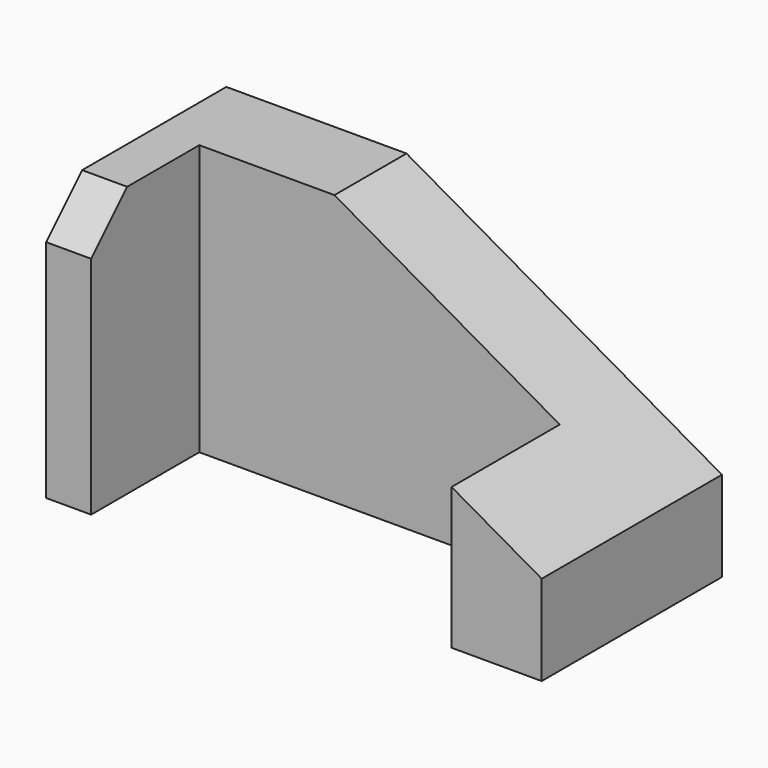
from build123d import *

# Parameters (mm, degrees)
F1_DEPTH = 60
F2_SIZE  = 10
F3_SIZE2 = 70
F3_SIZE  = 40


with BuildPart() as f1:
    # F0 (on Top) → F1 (new body)
    with BuildSketch(Plane.XY):
        Polygon((0, 50), (0, 0), (10, 0), (10, 30), (90, 30), (90, 0), (110, 0), (110, 50), align=None)
    extrude(amount=F1_DEPTH)

    # F2
    f2_edges = [f1.edges().sort_by_distance(p)[0] for p in [
        (5, 0, 60),
    ]]
    chamfer(f2_edges, length=F2_SIZE)

    # F3
    f3_edges = [f1.edges().sort_by_distance(p)[0] for p in [
        (110, 25, 60),
    ]]
    f3_side = f1.faces().sort_by_distance((110, 25, 30))[0]
    chamfer(f3_edges, length=F3_SIZE, length2=F3_SIZE2, reference=f3_side)


solid = f1.part
